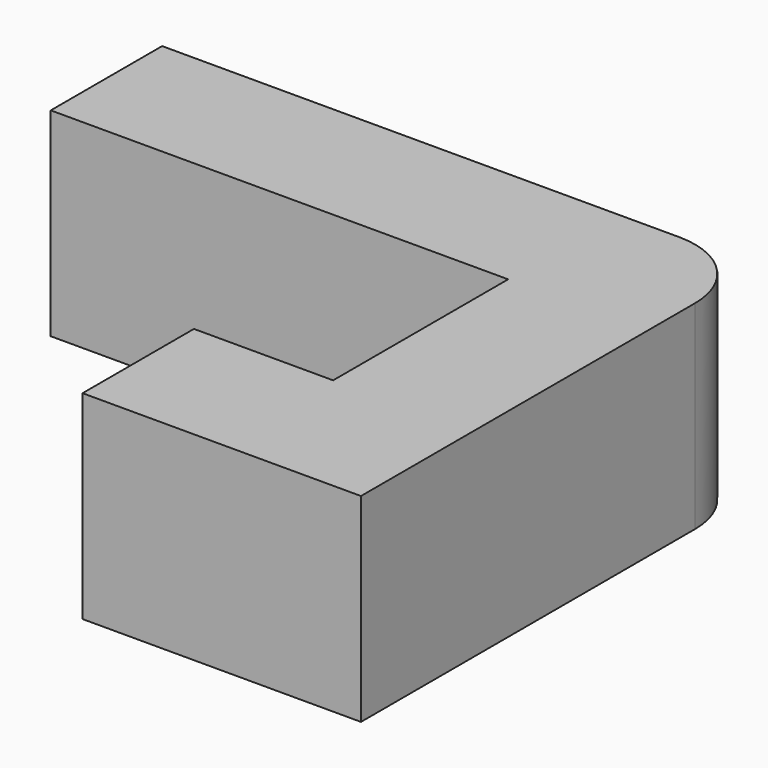
from build123d import *

# Parameters (mm, degrees)
BOX001_W     = 7
BOX001_H     = 25
BOX001_DEPTH = 10
FILLET_R     = 4
BOX_W        = 7
BOX_H        = 7
BOX_DEPTH    = 10
BOX002_W     = 23
BOX002_H     = 7
BOX002_DEPTH = 10


with BuildPart() as fillet_body:
    # Box001 → Box001 (new body)
    with BuildSketch(Plane(origin=(10, 0, 0), x_dir=(1, 0, 0), z_dir=(0, 0, 1))):
        with Locations((3.5, 12.5)):
            Rectangle(BOX001_W, BOX001_H)
    extrude(amount=BOX001_DEPTH)

    # Fillet
    fillet_edges = [fillet_body.edges().sort_by_distance(p)[0] for p in [
        (17, 25, 5),
    ]]
    fillet(fillet_edges, radius=FILLET_R)


with BuildPart() as cubo:
    # Box → Box (new body)
    with BuildSketch(Plane(origin=(3, 0, 0), x_dir=(1, 0, 0), z_dir=(0, 0, 1))):
        with Locations((3.5, 3.5)):
            Rectangle(BOX_W, BOX_H)
    extrude(amount=BOX_DEPTH)


with BuildPart() as fusion:
    # Box002 → Box002 (new body)
    with BuildSketch(Plane(origin=(-13, 18, 0), x_dir=(1, 0, 0), z_dir=(0, 0, 1))):
        with Locations((11.5, 3.5)):
            Rectangle(BOX002_W, BOX002_H)
    extrude(amount=BOX002_DEPTH)

    # Fusion: union Fillet body, Cubo
    add(fillet_body.part)
    add(cubo.part)


solid = fusion.part
